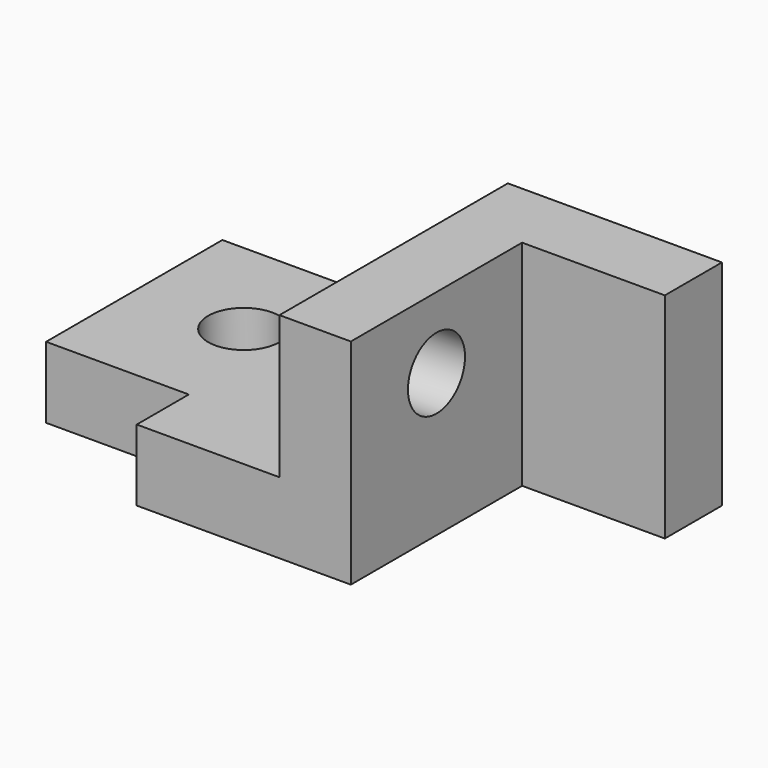
from build123d import *

# Parameters (mm, degrees)
F1_DEPTH = 10
F2_DEPTH = 30
F3_R     = 5
F4_DEPTH = 25
F5_R     = 5
F6_DEPTH = 25


with BuildPart() as f1:
    # F0 (on Top) → F1 (new body)
    with BuildSketch(Plane.XY):
        Polygon((5, -20), (5, 20), (-35, 20), (-35, -10.881234), (-15, -10.881234), (-15, -20), align=None)
    extrude(amount=F1_DEPTH)

    # F0 (on Top) → F2 (join)
    with BuildSketch(Plane.XY):
        Polygon((35, 10), (35, 20), (15, 20), (5, 20), (5, -20), (15, -20), (15, 10), align=None)
    extrude(amount=F2_DEPTH)

    # F3 (on face) → F4 (cut)
    with BuildSketch(Plane.YZ.offset(15)):
        with Locations((-5, 20)):
            Circle(F3_R)
    extrude(amount=-F4_DEPTH, mode=Mode.SUBTRACT)

    # F5 (on face) → F6 (cut)
    with BuildSketch(Plane.XY.offset(10)):
        with Locations((-20, 5)):
            Circle(F5_R)
    extrude(amount=-F6_DEPTH, mode=Mode.SUBTRACT)


solid = f1.part
